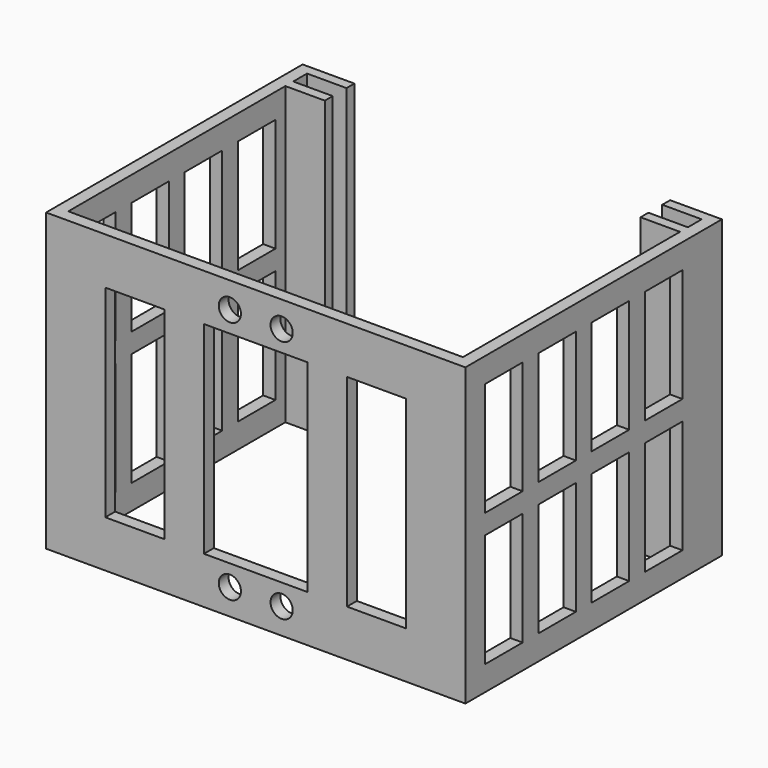
from build123d import *

# Parameters (mm, degrees)
PAD_DEPTH       = 60
SKETCH_R        = 2.25
SKETCH_W        = 12
SKETCH_H        = 41
POCKET_DEPTH    = 3
SKETCH002_W     = 9.5
SKETCH002_H     = 23
POCKET001_DEPTH = 85.001


with BuildPart() as part:
    # Sketch001 → Pad (new body)
    with BuildSketch(Plane(origin=(0, 0, 0), x_dir=(-1, 0, 0), z_dir=(0, 0, 1))):
        Polygon((-42.5, 0), (-42.5, -65), (-32, -65), (-32, -63), (-40, -63), (-40, -59.5), (-32, -59.5), (-32, -57.5), (-40, -57.5), (-40, -2.5), (0, -2.5), (40, -2.5), (40, -57.5), (32, -57.5), (32, -59.5), (40, -59.5), (40, -63), (32, -63), (32, -65), (42.5, -65), (42.5, 0), align=None)
    extrude(amount=PAD_DEPTH)

    # Sketch (on Face1 of Pad) → Pocket (cut)
    with BuildSketch(Plane(origin=(0, 0, 30), x_dir=(1, 0, 0), z_dir=(0, -1, 0))):
        with Locations((-5.25, 24.75)):
            Circle(SKETCH_R)
        with Locations((-5.25, -24.75)):
            Circle(SKETCH_R)
        with Locations((5.25, -24.75)):
            Circle(SKETCH_R)
        with Locations((5.25, 24.75)):
            Circle(SKETCH_R)
        Polygon((10.5, 20.5), (10.5, -20.5), (-10.5, -20.5), (-10.5, 0), (-10.5, 20.5), (0, 20.5), align=None)
        with Locations((-24.5, 0)):
            Rectangle(SKETCH_W, SKETCH_H)
        with Locations((24.5, 0)):
            Rectangle(SKETCH_W, SKETCH_H)
    extrude(amount=-POCKET_DEPTH, mode=Mode.SUBTRACT)

    # Sketch002 (on Face5 of Pocket) → Pocket001 (cut, through all)
    with BuildSketch(Plane(origin=(-42.5, 0, 0), x_dir=(0, -1, 0), z_dir=(-1, 0, 0))):
        with Locations((-9.75, 16.5)):
            Rectangle(SKETCH002_W, SKETCH002_H)
        with Locations((-23.25, 16.5)):
            Rectangle(SKETCH002_W, SKETCH002_H)
        with Locations((-9.75, 43.5)):
            Rectangle(SKETCH002_W, SKETCH002_H)
        with Locations((-23.25, 43.5)):
            Rectangle(SKETCH002_W, SKETCH002_H)
        with Locations((-36.75, 43.5)):
            Rectangle(SKETCH002_W, SKETCH002_H)
        with Locations((-50.25, 43.5)):
            Rectangle(SKETCH002_W, SKETCH002_H)
        with Locations((-36.75, 16.5)):
            Rectangle(SKETCH002_W, SKETCH002_H)
        with Locations((-50.25, 16.5)):
            Rectangle(SKETCH002_W, SKETCH002_H)
    extrude(amount=-POCKET001_DEPTH, mode=Mode.SUBTRACT)


solid = part.part
